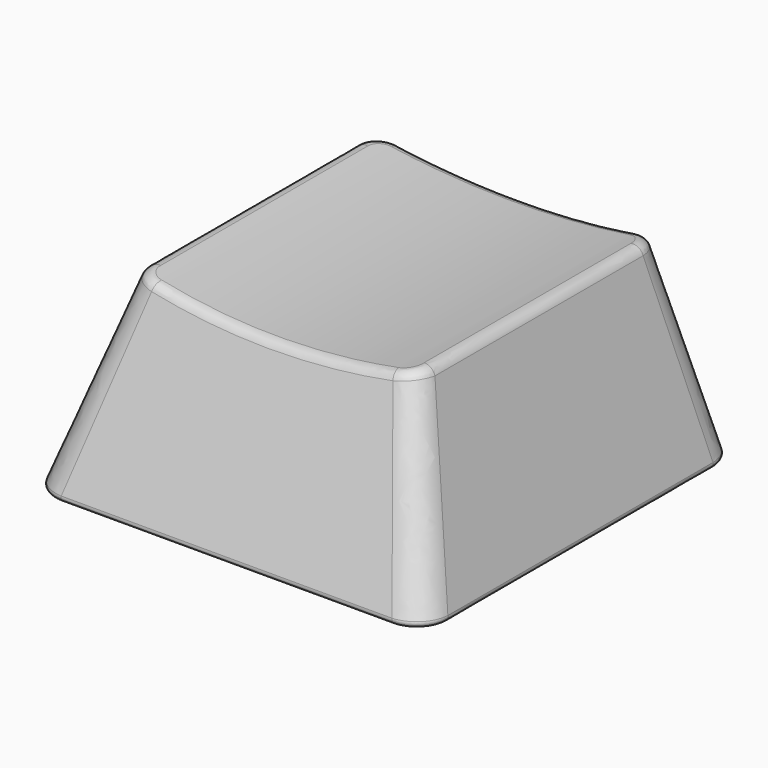
from build123d import *

# Parameters (mm, degrees)
SKETCH002_R          = 35
POCKET_DEPTH         = 12
POCKET_DEPTH_BACK    = 100
FILLET_R             = 0.5
FILLET001_R          = 0.2
PAD_DEPTH            = 5.5
FILLET002_R          = 0.3
FILLET003_R          = 0.5
FILLET004_R          = 0.2
SKETCH006_W          = 12.2
SKETCH006_H          = 0.5
POCKET001_DEPTH      = 8
POCKET001_DEPTH_BACK = 100


with BuildPart() as part:
    # Sketch → AdditiveLoft section 0
    with BuildSketch(Plane.XY):
        with BuildLine():
            Line((-8, 9.5), (8, 9.5))
            ThreePointArc((9.5, 8), (9.06066, 9.06066), (8, 9.5))
            Line((9.5, 8), (9.5, -8))
            ThreePointArc((8, -9.5), (9.06066, -9.06066), (9.5, -8))
            Line((8, -9.5), (-8, -9.5))
            ThreePointArc((-9.5, -8), (-9.06066, -9.06066), (-8, -9.5))
            Line((-9.5, -8), (-9.5, 8))
            ThreePointArc((-8, 9.5), (-9.06066, 9.06066), (-9.5, 8))
        make_face()
    # Sketch001 (on DatumPlane) → AdditiveLoft section 1
    with BuildSketch(Plane.XY.offset(9)):
        with BuildLine():
            Line((-5.65, 8), (5.65, 8))
            ThreePointArc((6.75, 6.9), (6.427817, 7.677817), (5.65, 8))
            Line((6.75, 6.9), (6.75, -5.4))
            ThreePointArc((5.65, -6.5), (6.427817, -6.177817), (6.75, -5.4))
            Line((5.65, -6.5), (-5.65, -6.5))
            ThreePointArc((-6.75, -5.4), (-6.427817, -6.177817), (-5.65, -6.5))
            Line((-6.75, -5.4), (-6.75, 6.9))
            ThreePointArc((-5.65, 8), (-6.427817, 7.677817), (-6.75, 6.9))
        make_face()
    loft()

    # Sketch002 → Pocket (cut, two sides)
    with BuildSketch(Plane.XZ) as pocket_sk:
        with Locations((0, 43.34294)):
            Circle(SKETCH002_R)
    extrude(amount=-POCKET_DEPTH, mode=Mode.SUBTRACT)
    extrude(pocket_sk.sketch, amount=POCKET_DEPTH_BACK, mode=Mode.SUBTRACT)

    # Fillet
    fillet_edges = [part.edges().sort_by_distance(p)[0] for p in [
        (0, -6.71902, 8.34294),
    ]]
    fillet(fillet_edges, radius=FILLET_R)

    # Sketch003 (on Face4 of Fillet) → SubtractiveLoft section 0
    with BuildSketch(Plane(origin=(0, 0, 0), x_dir=(1, 0, 0), z_dir=(0, 0, -1))):
        with BuildLine():
            Line((7.75, 8.25), (-7.75, 8.25))
            ThreePointArc((-7.75, 8.25), (-8.103553, 8.103553), (-8.25, 7.75))
            Line((-8.25, 7.75), (-8.25, -7.75))
            ThreePointArc((-8.25, -7.75), (-8.103553, -8.103553), (-7.75, -8.25))
            Line((-7.75, -8.25), (7.75, -8.25))
            ThreePointArc((7.75, -8.25), (8.103553, -8.103553), (8.25, -7.75))
            Line((8.25, -7.75), (8.25, 7.75))
            ThreePointArc((8.25, 7.75), (8.103553, 8.103553), (7.75, 8.25))
        make_face()
    # Sketch004 (on DatumPlane) → SubtractiveLoft section 1
    with BuildSketch(Plane(origin=(0, 0, 7), x_dir=(1, 0, 0), z_dir=(0, 0, -1))):
        with BuildLine():
            Line((-5.8, 5.925), (5.8, 5.925))
            ThreePointArc((6.1, 5.625), (6.012132, 5.837132), (5.8, 5.925))
            Line((6.1, 5.625), (6.1, -6.8))
            ThreePointArc((5.8, -7.1), (6.012132, -7.012132), (6.1, -6.8))
            Line((5.8, -7.1), (-5.8, -7.1))
            ThreePointArc((-6.1, -6.8), (-6.012132, -7.012132), (-5.8, -7.1))
            Line((-6.1, -6.8), (-6.1, 5.625))
            ThreePointArc((-5.8, 5.925), (-6.012132, 5.837132), (-6.1, 5.625))
        make_face()
    loft(mode=Mode.SUBTRACT)

    # Fillet001
    fillet001_edges = [part.edges().sort_by_distance(p)[0] for p in [
        (8.25, 0, 0),
        (0, 9.5, 0),
    ]]
    fillet(fillet001_edges, radius=FILLET001_R)

    # Sketch005 (on Face43 of Fillet001) → Pad (join)
    with BuildSketch(Plane(origin=(0, 0, 7), x_dir=(1, 0, 0), z_dir=(0, 0, -1))):
        Polygon((-0.52, 2.05), (-0.52, 0.6), (-2.2, 0.6), (-2.2, -0.6), (-0.52, -0.6), (-0.52, -2.05), (-3.1, -2.05), (-3.1, 2.05), align=None)
    pad = extrude(amount=PAD_DEPTH)

    # Mirrored: Pad across Sketch005 V_Axis
    add(pad.mirror(Plane(origin=(0, 0, 7), x_dir=(0, 0, -1), z_dir=(1, 0, 0))))

    # Fillet002
    fillet002_edges = [part.edges().sort_by_distance(p)[0] for p in [
        (0.52, -0.6, 4.25),
        (0.52, 0.6, 4.25),
        (-0.52, -0.6, 4.25),
        (-0.52, 0.6, 4.25),
    ]]
    fillet(fillet002_edges, radius=FILLET002_R)

    # Fillet003
    fillet003_edges = [part.edges().sort_by_distance(p)[0] for p in [
        (1.81, -2.05, 7),
        (3.1, 0, 7),
        (1.81, 2.05, 7),
        (-1.81, -2.05, 7),
        (-3.1, 0, 7),
        (-1.81, 2.05, 7),
        (-3.1, -2.05, 4.25),
        (-3.1, 2.05, 4.25),
        (3.1, 2.05, 4.25),
        (3.1, -2.05, 4.25),
    ]]
    fillet(fillet003_edges, radius=FILLET003_R)

    # Fillet004
    fillet004_edges = [part.edges().sort_by_distance(p)[0] for p in [
        (0.52, -1.475, 1.5),
        (2.2, 0, 1.5),
        (0.52, 1.475, 1.5),
        (-0.52, 1.475, 1.5),
        (-2.2, 0, 1.5),
        (-0.52, -1.475, 1.5),
    ]]
    fillet(fillet004_edges, radius=FILLET004_R)

    # Sketch006 (on Face43 of Fillet004) → Pocket001 (cut, two sides)
    with BuildSketch(Plane(origin=(0, 2.05, 0), x_dir=(-1, 0, 0), z_dir=(0, 1, 0))) as pocket001_sk:
        with Locations((0, 7.65)):
            Rectangle(SKETCH006_W, SKETCH006_H)
    extrude(amount=-POCKET001_DEPTH, mode=Mode.SUBTRACT)
    extrude(pocket001_sk.sketch, amount=POCKET001_DEPTH_BACK, mode=Mode.SUBTRACT)


solid = part.part
